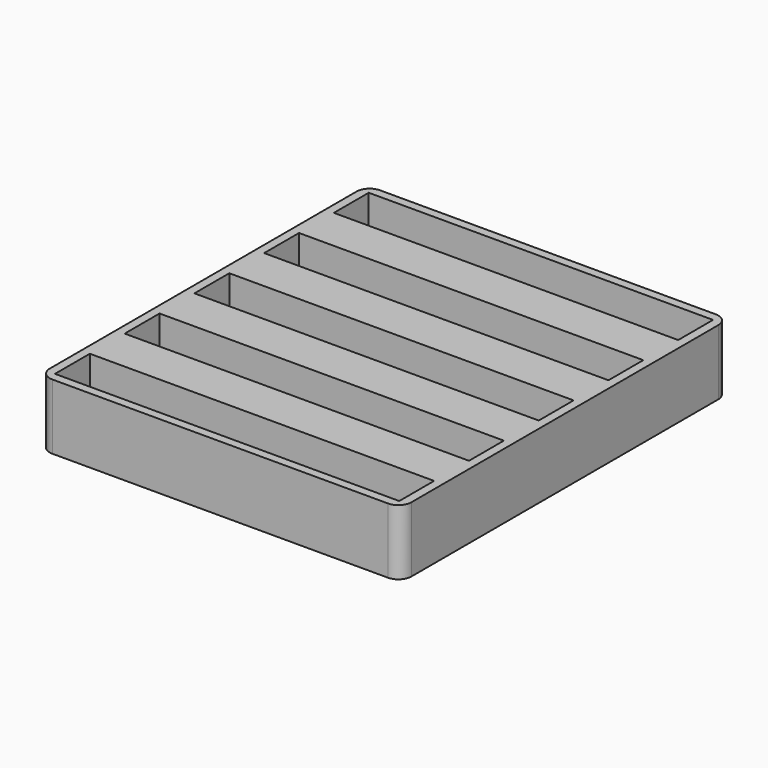
from build123d import *

# Parameters (mm, degrees)
SKETCH_W            = 83
SKETCH_H            = 94
PAD_DEPTH           = 15
SKETCH001_W         = 79
SKETCH001_H         = 10
POCKET_DEPTH        = 13
LINEARPATTERN_COUNT = 5
LINEARPATTERN_PITCH = 20
FILLET_R            = 3


with BuildPart() as part:
    # Sketch → Pad (new body)
    with BuildSketch(Plane.XY):
        Rectangle(SKETCH_W, SKETCH_H)
    extrude(amount=PAD_DEPTH)

    # Sketch001 (on Face6 of Pad) → Pocket (cut)
    with BuildSketch(Plane.XY.offset(15)):
        with Locations((0, 40)):
            Rectangle(SKETCH001_W, SKETCH001_H)
    pocket = extrude(amount=-POCKET_DEPTH, mode=Mode.SUBTRACT)

    # LinearPattern: Pocket ×5
    with Locations(*[(0, -i * LINEARPATTERN_PITCH, 0) for i in range(1, LINEARPATTERN_COUNT)]):
        add(pocket, mode=Mode.SUBTRACT)

    # Fillet
    fillet_edges = [part.edges().sort_by_distance(p)[0] for p in [
        (-41.5, 47, 7.5),
        (41.5, 47, 7.5),
        (-41.5, -47, 7.5),
        (41.5, -47, 7.5),
    ]]
    fillet(fillet_edges, radius=FILLET_R)


solid = part.part
